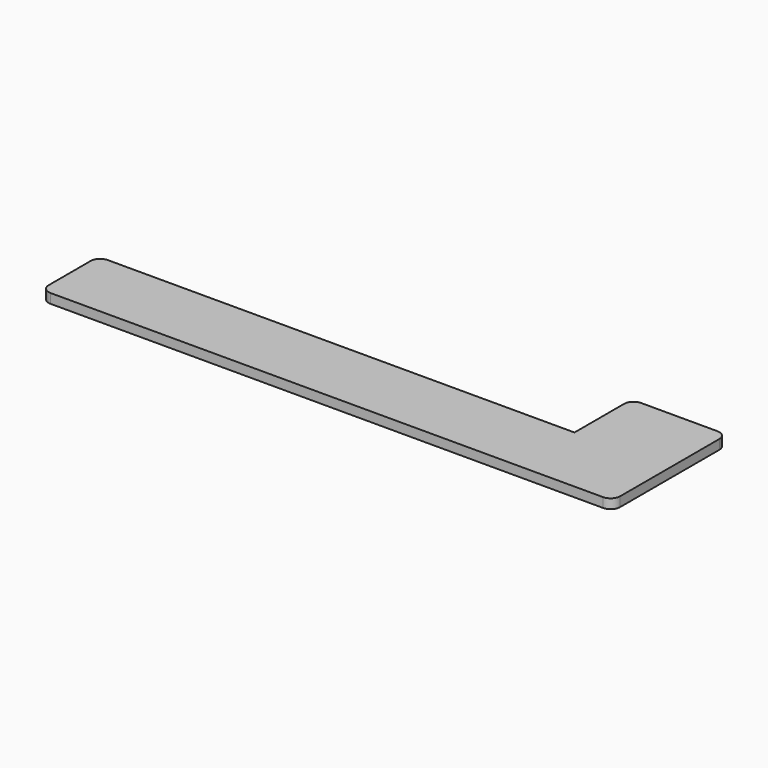
from build123d import *

# Parameters (mm, degrees)
F1_DEPTH = 2.54


with BuildPart() as f1:
    # F0 (on Top) → F1 (new body)
    with BuildSketch(Plane.XY):
        with BuildLine():
            Line((52.056518, 2.611155), (-72.403482, 2.611155))
            ThreePointArc((-72.403482, 2.611155), (-74.199533, 1.867206), (-74.943482, 0.071155))
            Line((-74.943482, 0.071155), (-74.943482, -13.898845))
            ThreePointArc((-74.943482, -13.898845), (-74.199533, -15.694897), (-72.403482, -16.438845))
            Line((-72.403482, -16.438845), (74.916518, -16.438845))
            ThreePointArc((74.916518, -16.438845), (76.712569, -15.694897), (77.456518, -13.898845))
            Line((77.456518, -13.898845), (77.456518, 2.611155))
            Line((77.456518, 2.611155), (77.456518, 19.121155))
            ThreePointArc((77.456518, 19.121155), (76.712569, 20.917206), (74.916518, 21.661155))
            Line((74.916518, 21.661155), (54.596518, 21.661155))
            ThreePointArc((54.596518, 21.661155), (52.800467, 20.917206), (52.056518, 19.121155))
            Line((52.056518, 19.121155), (52.056518, 2.611155))
        make_face()
    extrude(amount=F1_DEPTH)


solid = f1.part
